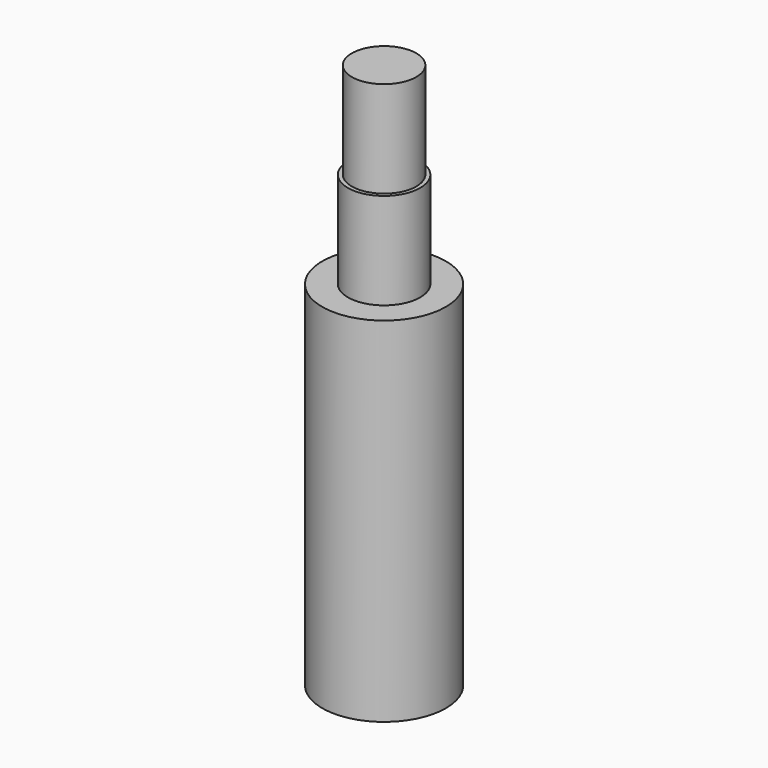
from build123d import *

# Parameters (mm, degrees)
F0_W = 20.0645
F0_H = 60
F2_W = 25.621276
F2_H = 20.080067


with BuildPart() as f1:
    # F0 (on Front) → F1 (revolve)
    with BuildSketch(Plane.XZ):
        Polygon((0, 280), (0, 220), (22.5, 220), (22.5, 280), (20.0645, 280), align=None)
        Polygon((0, 280), (0, 220), (22.5, 220), (22.5, 280), (20.0645, 280), align=None)
        with Locations((10.03225, 310)):
            Rectangle(F0_W, F0_H)
        Polygon((0, 86.328298), (0, 0), (38.5, 0), (38.5, 220), (22.5, 220), (0, 220), align=None)
    revolve(axis=Axis((0, 0, 43.164149), (0, 0, 1)))


with BuildPart() as f3:
    # F2 (on Front) → F3 (revolve)
    with BuildSketch(Plane.XZ):
        with Locations((12.810638, 10.040033)):
            Rectangle(F2_W, F2_H)
    revolve(axis=Axis((0, 0, 10.040034), (0, 0, 1)))


solid = Compound([f1.part, f3.part])
